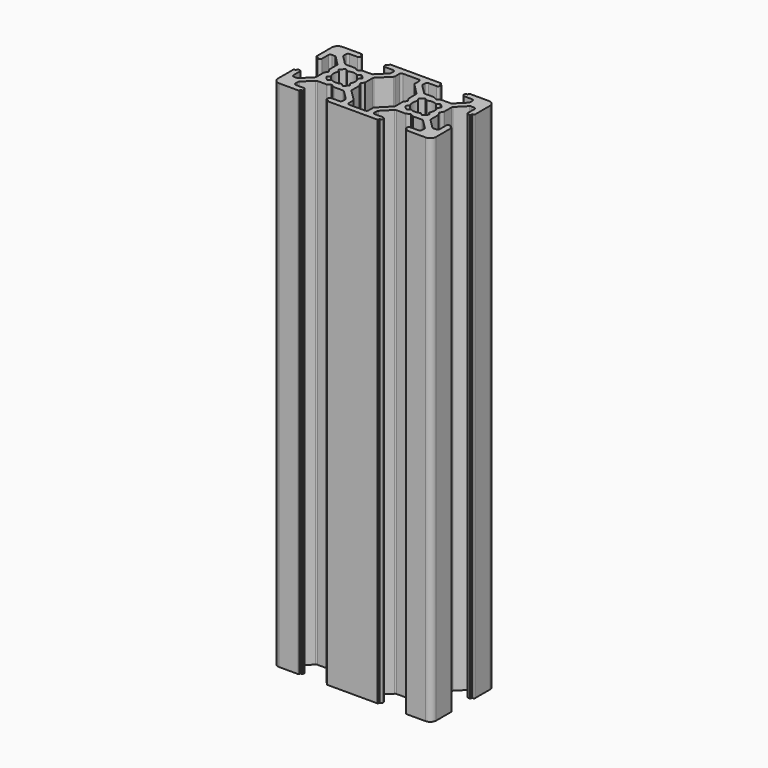
from build123d import *

# Parameters (mm, degrees)
PAD002_DEPTH = 140
PAD001_DEPTH = 140
PAD_DEPTH    = 130
POCKET_DEPTH = 130.001


with BuildPart() as pad002:
    # Sketch002 → Pad002 (new body)
    with BuildSketch(Plane.XY.offset(130)):
        with BuildLine():
            ThreePointArc((-6.689641, 8.086105), (-6.20841, 7.488263), (-5.609931, 7.007825))
            Line((-4.958185, 7.554705), (-5.609931, 7.007825))
            ThreePointArc((-4.958185, 7.554705), (-3.7, 7.25), (-2.441814, 7.554705))
            Line((-1.790069, 7.007825), (-2.441814, 7.554705))
            ThreePointArc((-1.790069, 7.007825), (-1.191589, 7.488263), (-0.710359, 8.086105))
            Line((-1.254704, 8.741815), (-0.710359, 8.086105))
            ThreePointArc((-1.254704, 8.741815), (-0.95, 10), (-1.254704, 11.258185))
            Line((-0.710359, 11.913895), (-1.254704, 11.258185))
            ThreePointArc((-0.710359, 11.913895), (-1.191589, 12.511737), (-1.790069, 12.992175))
            Line((-2.441814, 12.445295), (-1.790069, 12.992175))
            ThreePointArc((-2.441814, 12.445295), (-3.7, 12.75), (-4.958185, 12.445295))
            Line((-5.609931, 12.992175), (-4.958185, 12.445295))
            ThreePointArc((-5.609931, 12.992175), (-6.20841, 12.511737), (-6.689641, 11.913895))
            Line((-6.145295, 11.258185), (-6.689641, 11.913895))
            ThreePointArc((-6.145295, 11.258185), (-6.45, 10), (-6.145295, 8.741815))
            Line((-6.689641, 8.086105), (-6.145295, 8.741815))
        make_face()
    extrude(amount=-PAD002_DEPTH)


with BuildPart() as fusion:
    # Sketch003 → Pad001 (new body)
    with BuildSketch(Plane.XY.offset(130)):
        with BuildLine():
            ThreePointArc((13.310359, 8.086105), (13.79159, 7.488263), (14.390069, 7.007825))
            Line((15.041815, 7.554705), (14.390069, 7.007825))
            ThreePointArc((15.041815, 7.554705), (16.3, 7.25), (17.558186, 7.554705))
            Line((18.209931, 7.007825), (17.558186, 7.554705))
            ThreePointArc((18.209931, 7.007825), (18.808411, 7.488263), (19.289641, 8.086105))
            Line((18.745296, 8.741815), (19.289641, 8.086105))
            ThreePointArc((18.745296, 8.741815), (19.05, 10), (18.745296, 11.258185))
            Line((19.289641, 11.913895), (18.745296, 11.258185))
            ThreePointArc((19.289641, 11.913895), (18.808411, 12.511737), (18.209931, 12.992175))
            Line((17.558186, 12.445295), (18.209931, 12.992175))
            ThreePointArc((17.558186, 12.445295), (16.3, 12.75), (15.041815, 12.445295))
            Line((14.390069, 12.992175), (15.041815, 12.445295))
            ThreePointArc((14.390069, 12.992175), (13.79159, 12.511737), (13.310359, 11.913895))
            Line((13.854705, 11.258185), (13.310359, 11.913895))
            ThreePointArc((13.854705, 11.258185), (13.55, 10), (13.854705, 8.741815))
            Line((13.310359, 8.086105), (13.854705, 8.741815))
        make_face()
    extrude(amount=-PAD001_DEPTH)

    # Fusion: union Pad002
    add(pad002.part)


with BuildPart() as obj1:
    # Sketch → Pad (new body)
    with BuildSketch(Plane.XY):
        with BuildLine():
            Line((-13.7, 1.5), (-13.7, 6.3))
            ThreePointArc((-13.5, 6.5), (-13.641421, 6.441421), (-13.7, 6.3))
            Line((-13.5, 6.5), (-13.2, 6.5))
            Line((-13.2, 6.5), (-13.2, 6.8))
            ThreePointArc((-13, 7), (-13.141421, 6.941421), (-13.2, 6.8))
            Line((-13, 7), (-12.699999, 7))
            ThreePointArc((-12.199999, 6.5), (-12.346446, 6.853553), (-12.699999, 7))
            Line((-12.199999, 6.5), (-12.199999, 4.499999))
            ThreePointArc((-12.199999, 4.499999), (-12.053553, 4.146446), (-11.699999, 3.999999))
            Line((-11.699999, 3.999999), (-10.967766, 3.999999))
            ThreePointArc((-10.967766, 3.999999), (-10.776425, 4.03806), (-10.614213, 4.146446))
            Line((-10.614213, 4.146446), (-8.346446, 6.414213))
            ThreePointArc((-8.346446, 6.414213), (-8.23806, 6.576424), (-8.2, 6.767766))
            Line((-8.2, 6.767766), (-8.2, 9.04641))
            ThreePointArc((-8.173205, 9.14641), (-8.193185, 9.098173), (-8.2, 9.04641))
            Line((-8.173205, 9.14641), (-7.738119, 9.9))
            ThreePointArc((-7.738119, 9.9), (-7.711324, 10), (-7.738119, 10.1))
            Line((-7.738119, 10.1), (-8.173205, 10.85359))
            ThreePointArc((-8.2, 10.95359), (-8.193185, 10.901827), (-8.173205, 10.85359))
            Line((-8.2, 10.95359), (-8.2, 13.232234))
            ThreePointArc((-8.2, 13.232234), (-8.23806, 13.423576), (-8.346446, 13.585787))
            Line((-8.346446, 13.585787), (-10.614213, 15.853554))
            ThreePointArc((-10.614213, 15.853554), (-10.776425, 15.96194), (-10.967766, 16.000001))
            Line((-10.967766, 16.000001), (-11.699999, 16.000001))
            ThreePointArc((-11.699999, 16.000001), (-12.053553, 15.853554), (-12.199999, 15.500001))
            Line((-12.199999, 15.500001), (-12.199999, 13.5))
            ThreePointArc((-12.699999, 13), (-12.346446, 13.146447), (-12.199999, 13.5))
            Line((-12.699999, 13), (-13, 13))
            ThreePointArc((-13.2, 13.2), (-13.141421, 13.058579), (-13, 13))
            Line((-13.2, 13.2), (-13.2, 13.5))
            Line((-13.2, 13.5), (-13.5, 13.5))
            ThreePointArc((-13.7, 13.7), (-13.641421, 13.558579), (-13.5, 13.5))
            Line((-13.7, 13.7), (-13.7, 18.5))
            ThreePointArc((-12.2, 20), (-13.26066, 19.56066), (-13.7, 18.5))
            Line((-12.2, 20), (-7.399999, 20))
            ThreePointArc((-7.199999, 19.8), (-7.258578, 19.941421), (-7.399999, 20))
            Line((-7.199999, 19.8), (-7.199999, 19.5))
            Line((-7.199999, 19.5), (-6.9, 19.5))
            ThreePointArc((-6.7, 19.3), (-6.758578, 19.441421), (-6.9, 19.5))
            Line((-6.7, 19.3), (-6.7, 19))
            ThreePointArc((-7.2, 18.5), (-6.846446, 18.646446), (-6.7, 19))
            Line((-7.2, 18.5), (-9.199999, 18.5))
            ThreePointArc((-9.199999, 18.5), (-9.553553, 18.353553), (-9.699999, 18))
            Line((-9.699999, 18), (-9.699999, 17.267767))
            ThreePointArc((-9.699999, 17.267767), (-9.661939, 17.076425), (-9.553553, 16.914213))
            Line((-9.553553, 16.914213), (-7.285786, 14.646446))
            ThreePointArc((-7.285786, 14.646446), (-7.123574, 14.53806), (-6.932232, 14.5))
            Line((-6.932232, 14.5), (-4.653589, 14.5))
            ThreePointArc((-4.553589, 14.473205), (-4.601825, 14.493185), (-4.653589, 14.5))
            Line((-4.553589, 14.473205), (-3.8, 14.03812))
            ThreePointArc((-3.8, 14.03812), (-3.7, 14.011325), (-3.6, 14.03812))
            Line((-3.6, 14.03812), (-2.84641, 14.473205))
            ThreePointArc((-2.74641, 14.5), (-2.798174, 14.493185), (-2.84641, 14.473205))
            Line((-2.74641, 14.5), (-0.467767, 14.5))
            ThreePointArc((-0.467767, 14.5), (-0.276425, 14.53806), (-0.114214, 14.646446))
            Line((-0.114214, 14.646446), (2.153553, 16.914213))
            ThreePointArc((2.153553, 16.914213), (2.26194, 17.076425), (2.3, 17.267767))
            Line((2.3, 17.267767), (2.3, 18))
            ThreePointArc((2.3, 18), (2.153553, 18.353553), (1.8, 18.5))
            Line((1.8, 18.5), (-0.2, 18.5))
            ThreePointArc((-0.7, 19), (-0.553553, 18.646446), (-0.2, 18.5))
            Line((-0.7, 19), (-0.7, 19.3))
            ThreePointArc((-0.5, 19.5), (-0.641421, 19.441421), (-0.7, 19.3))
            Line((-0.5, 19.5), (-0.2, 19.5))
            Line((-0.2, 19.5), (-0.2, 19.8))
            ThreePointArc((0, 20), (-0.141421, 19.941421), (-0.2, 19.8))
            Line((0, 20), (12.600001, 20))
            ThreePointArc((12.800001, 19.8), (12.741422, 19.941421), (12.600001, 20))
            Line((12.800001, 19.8), (12.800001, 19.5))
            Line((12.800001, 19.5), (13.1, 19.5))
            ThreePointArc((13.3, 19.3), (13.241422, 19.441421), (13.1, 19.5))
            Line((13.3, 19.3), (13.3, 19))
            ThreePointArc((12.8, 18.5), (13.153554, 18.646446), (13.3, 19))
            Line((12.8, 18.5), (10.800001, 18.5))
            ThreePointArc((10.800001, 18.5), (10.446447, 18.353553), (10.300001, 18))
            Line((10.300001, 18), (10.300001, 17.267767))
            ThreePointArc((10.300001, 17.267767), (10.338061, 17.076425), (10.446447, 16.914213))
            Line((10.446447, 16.914213), (12.714214, 14.646446))
            ThreePointArc((12.714214, 14.646446), (12.876426, 14.53806), (13.067768, 14.5))
            Line((13.067768, 14.5), (15.346411, 14.5))
            ThreePointArc((15.446411, 14.473205), (15.398175, 14.493185), (15.346411, 14.5))
            Line((15.446411, 14.473205), (16.2, 14.03812))
            ThreePointArc((16.2, 14.03812), (16.3, 14.011325), (16.4, 14.03812))
            Line((16.4, 14.03812), (17.15359, 14.473205))
            ThreePointArc((17.25359, 14.5), (17.201826, 14.493185), (17.15359, 14.473205))
            Line((17.25359, 14.5), (19.532233, 14.5))
            ThreePointArc((19.532233, 14.5), (19.723575, 14.53806), (19.885786, 14.646446))
            Line((19.885786, 14.646446), (22.153553, 16.914213))
            ThreePointArc((22.153553, 16.914213), (22.26194, 17.076425), (22.3, 17.267767))
            Line((22.3, 17.267767), (22.3, 18))
            ThreePointArc((22.3, 18), (22.153553, 18.353553), (21.8, 18.5))
            Line((21.8, 18.5), (19.8, 18.5))
            ThreePointArc((19.3, 19), (19.446447, 18.646446), (19.8, 18.5))
            Line((19.3, 19), (19.3, 19.3))
            ThreePointArc((19.5, 19.5), (19.358579, 19.441421), (19.3, 19.3))
            Line((19.5, 19.5), (19.8, 19.5))
            Line((19.8, 19.5), (19.8, 19.8))
            ThreePointArc((20, 20), (19.858579, 19.941421), (19.8, 19.8))
            Line((20, 20), (24.8, 20))
            ThreePointArc((26.3, 18.5), (25.860661, 19.56066), (24.8, 20))
            Line((26.3, 18.5), (26.3, 13.7))
            ThreePointArc((26.1, 13.5), (26.241422, 13.558579), (26.3, 13.7))
            Line((26.1, 13.5), (25.8, 13.5))
            Line((25.8, 13.5), (25.8, 13.2))
            ThreePointArc((25.6, 13), (25.741422, 13.058579), (25.8, 13.2))
            Line((25.6, 13), (25.3, 13))
            ThreePointArc((24.8, 13.5), (24.946447, 13.146447), (25.3, 13))
            Line((24.8, 13.5), (24.8, 15.500001))
            ThreePointArc((24.8, 15.500001), (24.653553, 15.853554), (24.3, 16.000001))
            Line((24.3, 16.000001), (23.567767, 16.000001))
            ThreePointArc((23.567767, 16.000001), (23.376425, 15.96194), (23.214214, 15.853554))
            Line((23.214214, 15.853554), (20.946447, 13.585787))
            ThreePointArc((20.946447, 13.585787), (20.838061, 13.423576), (20.8, 13.232234))
            Line((20.8, 13.232234), (20.8, 10.95359))
            ThreePointArc((20.773205, 10.85359), (20.793186, 10.901827), (20.8, 10.95359))
            Line((20.773205, 10.85359), (20.33812, 10.1))
            ThreePointArc((20.33812, 10.1), (20.311325, 10), (20.33812, 9.9))
            Line((20.33812, 9.9), (20.773205, 9.14641))
            ThreePointArc((20.8, 9.04641), (20.793186, 9.098173), (20.773205, 9.14641))
            Line((20.8, 9.04641), (20.8, 6.767766))
            ThreePointArc((20.8, 6.767766), (20.838061, 6.576424), (20.946447, 6.414213))
            Line((20.946447, 6.414213), (23.214214, 4.146446))
            ThreePointArc((23.214214, 4.146446), (23.376425, 4.03806), (23.567767, 3.999999))
            Line((23.567767, 3.999999), (24.3, 3.999999))
            ThreePointArc((24.3, 3.999999), (24.653553, 4.146446), (24.8, 4.499999))
            Line((24.8, 4.499999), (24.8, 6.5))
            ThreePointArc((25.3, 7), (24.946447, 6.853553), (24.8, 6.5))
            Line((25.3, 7), (25.6, 7))
            ThreePointArc((25.8, 6.8), (25.741422, 6.941421), (25.6, 7))
            Line((25.8, 6.8), (25.8, 6.5))
            Line((25.8, 6.5), (26.1, 6.5))
            ThreePointArc((26.3, 6.3), (26.241422, 6.441421), (26.1, 6.5))
            Line((26.3, 6.3), (26.3, 1.5))
            ThreePointArc((24.8, 0), (25.860661, 0.43934), (26.3, 1.5))
            Line((24.8, 0), (20, 0))
            ThreePointArc((19.8, 0.2), (19.858579, 0.058579), (20, 0))
            Line((19.8, 0.2), (19.8, 0.5))
            Line((19.8, 0.5), (19.5, 0.5))
            ThreePointArc((19.3, 0.7), (19.358579, 0.558579), (19.5, 0.5))
            Line((19.3, 0.7), (19.3, 1))
            ThreePointArc((19.8, 1.5), (19.446447, 1.353554), (19.3, 1))
            Line((19.8, 1.5), (21.8, 1.5))
            ThreePointArc((21.8, 1.5), (22.153553, 1.646447), (22.3, 2))
            Line((22.3, 2), (22.3, 2.732233))
            ThreePointArc((22.3, 2.732233), (22.26194, 2.923575), (22.153553, 3.085787))
            Line((22.153553, 3.085787), (19.885786, 5.353554))
            ThreePointArc((19.885786, 5.353554), (19.723575, 5.46194), (19.532233, 5.5))
            Line((19.532233, 5.5), (17.25359, 5.5))
            ThreePointArc((17.15359, 5.526795), (17.201826, 5.506815), (17.25359, 5.5))
            Line((17.15359, 5.526795), (16.4, 5.96188))
            ThreePointArc((16.4, 5.96188), (16.3, 5.988675), (16.2, 5.96188))
            Line((16.2, 5.96188), (15.446411, 5.526795))
            ThreePointArc((15.346411, 5.5), (15.398175, 5.506815), (15.446411, 5.526795))
            Line((15.346411, 5.5), (13.067768, 5.5))
            ThreePointArc((13.067768, 5.5), (12.876426, 5.46194), (12.714214, 5.353554))
            Line((12.714214, 5.353554), (10.446447, 3.085787))
            ThreePointArc((10.446447, 3.085787), (10.338061, 2.923575), (10.300001, 2.732233))
            Line((10.300001, 2.732233), (10.300001, 2))
            ThreePointArc((10.300001, 2), (10.446447, 1.646447), (10.800001, 1.5))
            Line((10.800001, 1.5), (12.8, 1.5))
            ThreePointArc((13.3, 1), (13.153554, 1.353554), (12.8, 1.5))
            Line((13.3, 1), (13.3, 0.7))
            ThreePointArc((13.1, 0.5), (13.241422, 0.558579), (13.3, 0.7))
            Line((13.1, 0.5), (12.800001, 0.5))
            Line((12.800001, 0.5), (12.800001, 0.2))
            ThreePointArc((12.600001, 0), (12.741422, 0.058579), (12.800001, 0.2))
            Line((12.600001, 0), (0, 0))
            ThreePointArc((-0.2, 0.2), (-0.141421, 0.058579), (0, 0))
            Line((-0.2, 0.2), (-0.2, 0.5))
            Line((-0.2, 0.5), (-0.5, 0.5))
            ThreePointArc((-0.7, 0.7), (-0.641421, 0.558579), (-0.5, 0.5))
            Line((-0.7, 0.7), (-0.7, 1))
            ThreePointArc((-0.2, 1.5), (-0.553553, 1.353554), (-0.7, 1))
            Line((-0.2, 1.5), (1.8, 1.5))
            ThreePointArc((1.8, 1.5), (2.153553, 1.646447), (2.3, 2))
            Line((2.3, 2), (2.3, 2.732233))
            ThreePointArc((2.3, 2.732233), (2.26194, 2.923575), (2.153553, 3.085787))
            Line((2.153553, 3.085787), (-0.114214, 5.353554))
            ThreePointArc((-0.114214, 5.353554), (-0.276425, 5.46194), (-0.467767, 5.5))
            Line((-0.467767, 5.5), (-2.74641, 5.5))
            ThreePointArc((-2.84641, 5.526795), (-2.798174, 5.506815), (-2.74641, 5.5))
            Line((-2.84641, 5.526795), (-3.6, 5.96188))
            ThreePointArc((-3.6, 5.96188), (-3.7, 5.988675), (-3.8, 5.96188))
            Line((-3.8, 5.96188), (-4.553589, 5.526795))
            ThreePointArc((-4.653589, 5.5), (-4.601825, 5.506815), (-4.553589, 5.526795))
            Line((-4.653589, 5.5), (-6.932232, 5.5))
            ThreePointArc((-6.932232, 5.5), (-7.123574, 5.46194), (-7.285786, 5.353554))
            Line((-7.285786, 5.353554), (-9.553553, 3.085787))
            ThreePointArc((-9.553553, 3.085787), (-9.661939, 2.923575), (-9.699999, 2.732233))
            Line((-9.699999, 2.732233), (-9.699999, 2))
            ThreePointArc((-9.699999, 2), (-9.553553, 1.646447), (-9.199999, 1.5))
            Line((-9.199999, 1.5), (-7.2, 1.5))
            ThreePointArc((-6.7, 1), (-6.846446, 1.353554), (-7.2, 1.5))
            Line((-6.7, 1), (-6.7, 0.7))
            ThreePointArc((-6.9, 0.5), (-6.758578, 0.558579), (-6.7, 0.7))
            Line((-6.9, 0.5), (-7.199999, 0.5))
            Line((-7.199999, 0.5), (-7.199999, 0.2))
            ThreePointArc((-7.399999, 0), (-7.258578, 0.058579), (-7.199999, 0.2))
            Line((-7.399999, 0), (-12.2, 0))
            ThreePointArc((-13.7, 1.5), (-13.26066, 0.43934), (-12.2, 0))
        make_face()
    extrude(amount=PAD_DEPTH)

    # Sketch001 → Pocket (cut, through all)
    with BuildSketch(Plane.XY.offset(130)):
        with BuildLine():
            ThreePointArc((3.8, 3.353549), (3.76194, 3.54489), (3.653554, 3.707102))
            Line((3.653554, 3.707102), (0.946447, 6.414213))
            ThreePointArc((0.8, 6.767766), (0.838061, 6.576424), (0.946447, 6.414213))
            Line((0.8, 6.767766), (0.8, 9.046406))
            ThreePointArc((0.8, 9.046406), (0.793186, 9.09817), (0.773205, 9.146406))
            Line((0.773205, 9.146406), (0.33812, 9.9))
            ThreePointArc((0.33812, 10.1), (0.311325, 10), (0.33812, 9.9))
            Line((0.33812, 10.1), (0.773205, 10.85359))
            ThreePointArc((0.773205, 10.85359), (0.793186, 10.901826), (0.8, 10.95359))
            Line((0.8, 10.95359), (0.8, 13.23223))
            ThreePointArc((0.946447, 13.585783), (0.838061, 13.423571), (0.8, 13.23223))
            Line((0.946447, 13.585783), (3.653554, 16.292894))
            ThreePointArc((3.653554, 16.292894), (3.76194, 16.455106), (3.8, 16.646447))
            Line((3.8, 16.646447), (3.8, 18))
            ThreePointArc((4.3, 18.5), (3.946447, 18.353553), (3.8, 18))
            Line((4.3, 18.5), (8.3, 18.5))
            ThreePointArc((8.8, 18), (8.653554, 18.353553), (8.3, 18.5))
            Line((8.8, 18), (8.800001, 16.646448))
            ThreePointArc((8.800001, 16.646448), (8.838061, 16.455106), (8.946447, 16.292895))
            Line((8.946447, 16.292895), (11.653554, 13.585784))
            ThreePointArc((11.8, 13.23223), (11.76194, 13.423572), (11.653554, 13.585784))
            Line((11.8, 13.23223), (11.8, 10.95359))
            ThreePointArc((11.8, 10.95359), (11.806815, 10.901827), (11.826795, 10.85359))
            Line((11.826795, 10.85359), (12.261881, 10.1))
            ThreePointArc((12.261881, 9.9), (12.288676, 10), (12.261881, 10.1))
            Line((12.261881, 9.9), (11.826795, 9.14641))
            ThreePointArc((11.826795, 9.14641), (11.806815, 9.098174), (11.8, 9.04641))
            Line((11.8, 9.04641), (11.8, 6.76777))
            ThreePointArc((11.653554, 6.414217), (11.76194, 6.576428), (11.8, 6.76777))
            Line((11.653554, 6.414217), (8.946447, 3.707106))
            ThreePointArc((8.946447, 3.707106), (8.838061, 3.544894), (8.8, 3.353552))
            Line((8.8, 3.353552), (8.8, 2))
            ThreePointArc((8.3, 1.5), (8.653554, 1.646447), (8.8, 2))
            Line((8.3, 1.5), (4.3, 1.5))
            ThreePointArc((3.8, 2), (3.946447, 1.646447), (4.3, 1.5))
            Line((3.8, 2), (3.8, 3.353549))
        make_face()
    extrude(amount=-POCKET_DEPTH, mode=Mode.SUBTRACT)

    # Cut: cut Fusion
    add(fusion.part, mode=Mode.SUBTRACT)


solid = obj1.part
